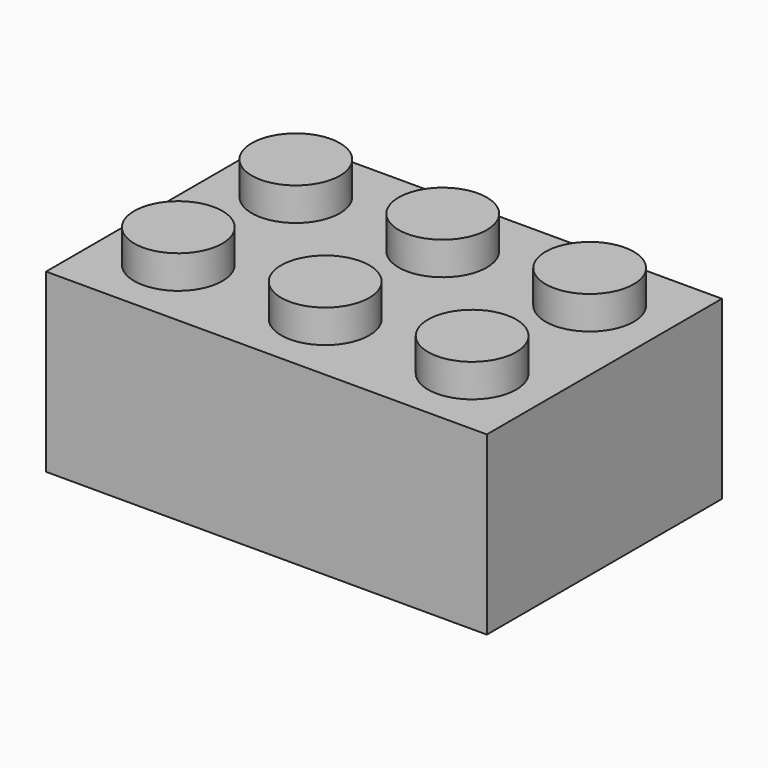
from build123d import *

# Parameters (mm, degrees)
F0_W     = 24
F0_H     = 16
F1_DEPTH = 9.6
F2_R     = 2.4
F3_DEPTH = 1.8


with BuildPart() as f1:
    # F0 (on Top) → F1 (new body)
    with BuildSketch(Plane.XY):
        with Locations((-12, 8)):
            Rectangle(F0_W, F0_H)
    extrude(amount=F1_DEPTH)

    # F2 (on face) → F3 (join)
    with BuildSketch(Plane.XY.offset(9.6)):
        with Locations((-20, 12)):
            Circle(F2_R)
        with Locations((-12, 12)):
            Circle(F2_R)
        with Locations((-4, 12)):
            Circle(F2_R)
        with Locations((-4, 4)):
            Circle(F2_R)
        with Locations((-12, 4)):
            Circle(F2_R)
        with Locations((-20, 4)):
            Circle(F2_R)
    extrude(amount=F3_DEPTH)


solid = f1.part
